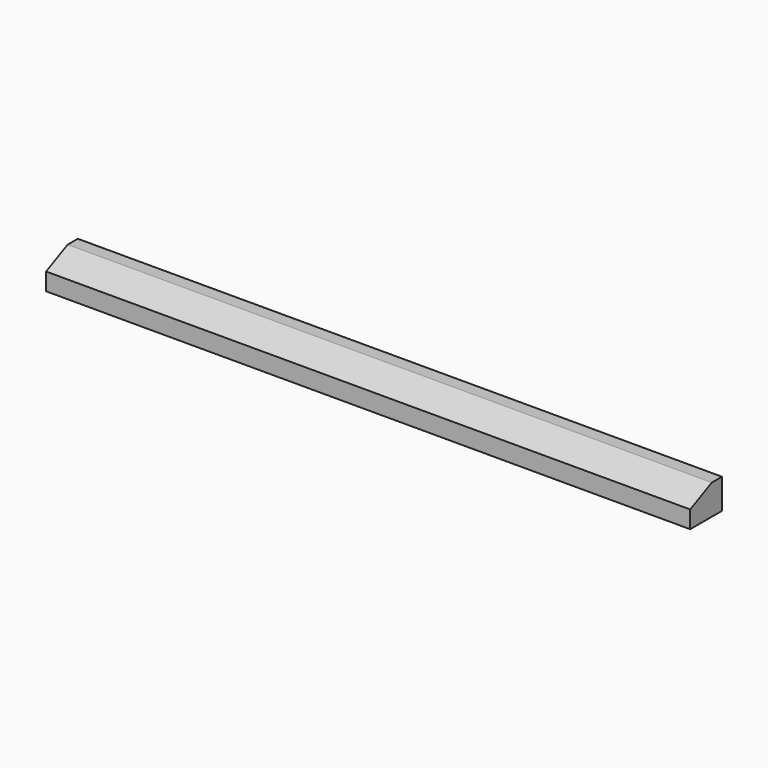
from build123d import *

# Parameters (mm, degrees)
F0_W     = 2030
F0_H     = 95
F1_DEPTH = 125
F2_SIZE2 = 85
F2_SIZE  = 40


with BuildPart() as f1:
    # F0 (on Front) → F1 (new body)
    with BuildSketch(Plane.XZ):
        with Locations((-1015, -47.5)):
            Rectangle(F0_W, F0_H)
    extrude(amount=F1_DEPTH)

    # F2
    f2_edges = [f1.edges().sort_by_distance(p)[0] for p in [
        (-1015, -125, 0),
    ]]
    f2_side = f1.faces().sort_by_distance((-1015, -125, -47.5))[0]
    chamfer(f2_edges, length=F2_SIZE, length2=F2_SIZE2, reference=f2_side)


solid = f1.part
